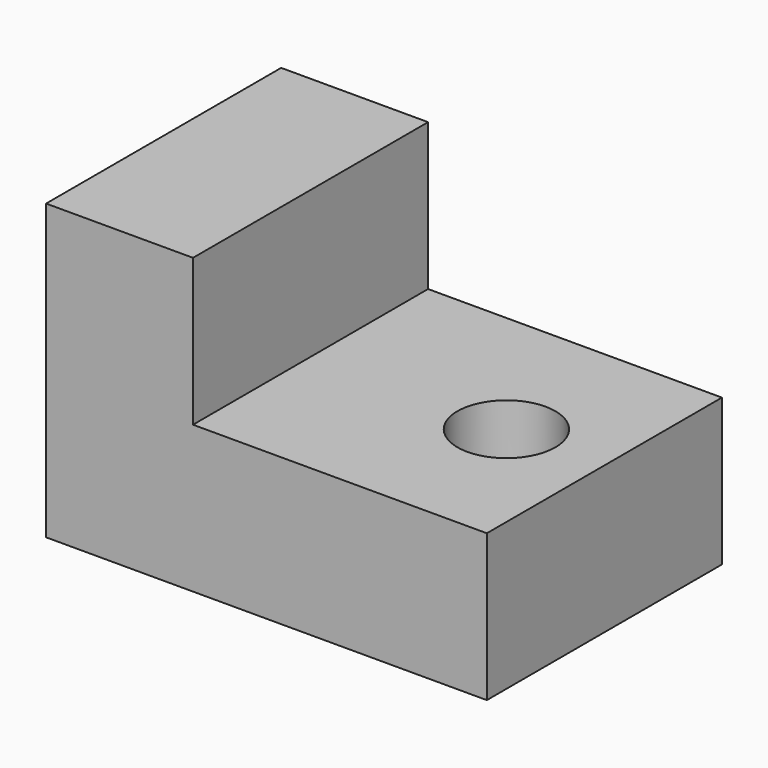
from build123d import *

# Parameters (mm, degrees)
F0_W     = 90
F0_H     = 60
F1_DEPTH = 60
F2_W     = 60
F2_H     = 60
F3_DEPTH = 30
F4_R     = 10
F5_DEPTH = 55.20023


with BuildPart() as f1:
    # F0 (on Front) → F1 (new body)
    with BuildSketch(Plane.XZ):
        with Locations((3.869617, 6.589345)):
            Rectangle(F0_W, F0_H)
    extrude(amount=F1_DEPTH)

    # F2 (on face) → F3 (cut)
    with BuildSketch(Plane.XY.offset(36.589345)):
        with Locations((18.869617, -30)):
            Rectangle(F2_W, F2_H)
    extrude(amount=-F3_DEPTH, mode=Mode.SUBTRACT)

    # F4 (on face) → F5 (cut)
    with BuildSketch(Plane.XY.offset(6.589345)):
        with Locations((28.869617, -30)):
            Circle(F4_R)
    extrude(amount=-F5_DEPTH, mode=Mode.SUBTRACT)


solid = f1.part
